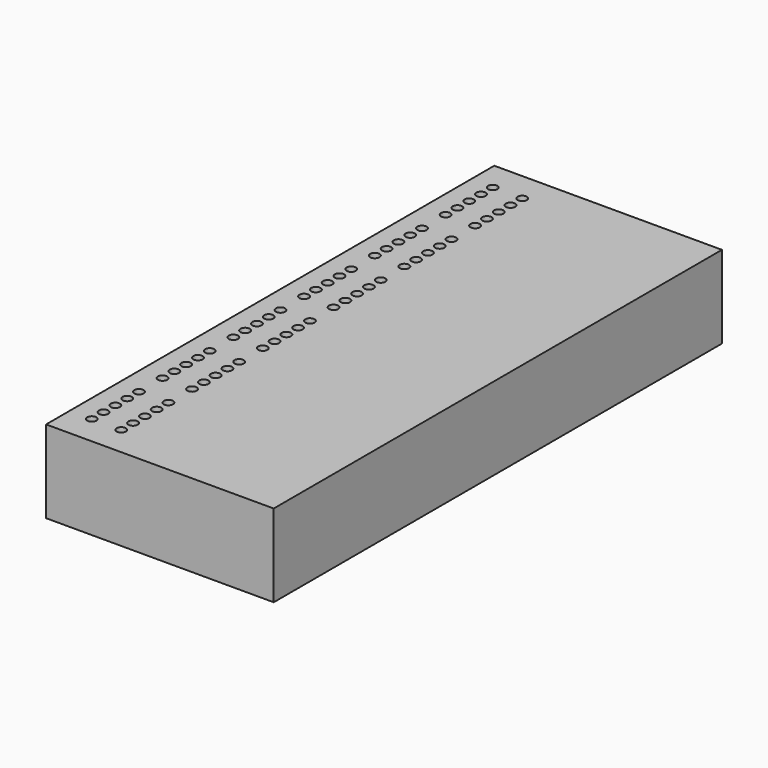
from build123d import *

# Parameters (mm, degrees)
F0_W     = 98.044
F0_H     = 241.3
F1_DEPTH = 35.56
F2_R     = 2
F3_DEPTH = 9.525


with BuildPart() as f1:
    # F0 (on Top) → F1 (new body)
    with BuildSketch(Plane.XY):
        with Locations((49.022, 120.65)):
            Rectangle(F0_W, F0_H)
    extrude(amount=F1_DEPTH)

    # F2 (on face) → F3 (cut)
    with BuildSketch(Plane.XY.offset(35.56)):
        with Locations((9.525, 12.7)):
            Circle(F2_R)
        with Locations((9.525, 19.05)):
            Circle(F2_R)
        with Locations((9.525, 25.4)):
            Circle(F2_R)
        with Locations((9.525, 31.75)):
            Circle(F2_R)
        with Locations((9.525, 38.1)):
            Circle(F2_R)
        with Locations((22.225, 38.1)):
            Circle(F2_R)
        with Locations((22.225, 31.75)):
            Circle(F2_R)
        with Locations((22.225, 25.4)):
            Circle(F2_R)
        with Locations((22.225, 19.05)):
            Circle(F2_R)
        with Locations((22.225, 12.7)):
            Circle(F2_R)
        with Locations((9.525, 76.2)):
            Circle(F2_R)
        with Locations((9.525, 69.85)):
            Circle(F2_R)
        with Locations((9.525, 63.5)):
            Circle(F2_R)
        with Locations((9.525, 57.15)):
            Circle(F2_R)
        with Locations((9.525, 50.8)):
            Circle(F2_R)
        with Locations((22.225, 50.8)):
            Circle(F2_R)
        with Locations((22.225, 57.15)):
            Circle(F2_R)
        with Locations((22.225, 63.5)):
            Circle(F2_R)
        with Locations((22.225, 76.2)):
            Circle(F2_R)
        with Locations((22.225, 69.85)):
            Circle(F2_R)
        with Locations((9.525, 114.3)):
            Circle(F2_R)
        with Locations((9.525, 107.95)):
            Circle(F2_R)
        with Locations((9.525, 101.6)):
            Circle(F2_R)
        with Locations((9.525, 95.25)):
            Circle(F2_R)
        with Locations((9.525, 88.9)):
            Circle(F2_R)
        with Locations((22.225, 88.9)):
            Circle(F2_R)
        with Locations((22.225, 95.25)):
            Circle(F2_R)
        with Locations((22.225, 101.6)):
            Circle(F2_R)
        with Locations((22.225, 114.3)):
            Circle(F2_R)
        with Locations((22.225, 107.95)):
            Circle(F2_R)
        with Locations((9.525, 152.4)):
            Circle(F2_R)
        with Locations((9.525, 146.05)):
            Circle(F2_R)
        with Locations((9.525, 139.7)):
            Circle(F2_R)
        with Locations((9.525, 133.35)):
            Circle(F2_R)
        with Locations((9.525, 127)):
            Circle(F2_R)
        with Locations((22.225, 127)):
            Circle(F2_R)
        with Locations((22.225, 133.35)):
            Circle(F2_R)
        with Locations((22.225, 139.7)):
            Circle(F2_R)
        with Locations((22.225, 152.4)):
            Circle(F2_R)
        with Locations((22.225, 146.05)):
            Circle(F2_R)
        with Locations((9.525, 190.5)):
            Circle(F2_R)
        with Locations((9.525, 184.15)):
            Circle(F2_R)
        with Locations((9.525, 177.8)):
            Circle(F2_R)
        with Locations((9.525, 171.45)):
            Circle(F2_R)
        with Locations((9.525, 165.1)):
            Circle(F2_R)
        with Locations((22.225, 165.1)):
            Circle(F2_R)
        with Locations((22.225, 171.45)):
            Circle(F2_R)
        with Locations((22.225, 177.8)):
            Circle(F2_R)
        with Locations((22.225, 190.5)):
            Circle(F2_R)
        with Locations((22.225, 184.15)):
            Circle(F2_R)
        with Locations((9.525, 228.6)):
            Circle(F2_R)
        with Locations((9.525, 222.25)):
            Circle(F2_R)
        with Locations((9.525, 215.9)):
            Circle(F2_R)
        with Locations((9.525, 209.55)):
            Circle(F2_R)
        with Locations((9.525, 203.2)):
            Circle(F2_R)
        with Locations((22.225, 203.2)):
            Circle(F2_R)
        with Locations((22.225, 209.55)):
            Circle(F2_R)
        with Locations((22.225, 215.9)):
            Circle(F2_R)
        with Locations((22.225, 228.6)):
            Circle(F2_R)
        with Locations((22.225, 222.25)):
            Circle(F2_R)
    extrude(amount=-F3_DEPTH, mode=Mode.SUBTRACT)


solid = f1.part
